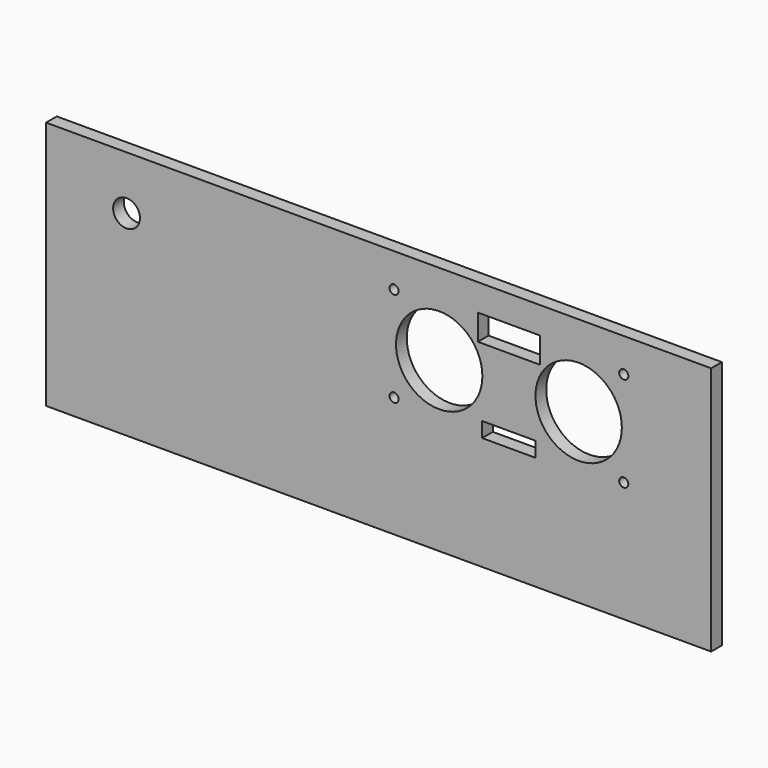
from build123d import *

# Parameters (mm, degrees)
F0_W     = 124
F0_H     = 46.5
F0_R     = 0.85
F0_R_2   = 2.5
F0_R_3   = 8.05
F1_DEPTH = 2.5


with BuildPart() as f1:
    # F0 (on Front) → F1 (new body)
    with BuildSketch(Plane.XZ):
        with Locations((65, 26.25)):
            Rectangle(F0_W, F0_H)
        with Locations((67.88, 25.46)):
            Circle(F0_R, mode=Mode.SUBTRACT)
        Polygon((84.29, 24.16), (84.29, 26.96), (89.29, 26.96), (94.29, 26.96), (94.29, 24.16), (89.29, 24.16), align=None, mode=Mode.SUBTRACT)
        with Locations((110.7, 25.46)):
            Circle(F0_R, mode=Mode.SUBTRACT)
        with Locations((18, 39.5)):
            Circle(F0_R_2, mode=Mode.SUBTRACT)
        with Locations((76.29, 34.33)):
            Circle(F0_R_3, mode=Mode.SUBTRACT)
        with Locations((102.29, 34.33)):
            Circle(F0_R_3, mode=Mode.SUBTRACT)
        with Locations((67.88, 43.2)):
            Circle(F0_R, mode=Mode.SUBTRACT)
        Polygon((83.49, 39.7), (83.49, 44.5), (89.29, 44.5), (95.09, 44.5), (95.09, 39.7), (89.29, 39.7), align=None, mode=Mode.SUBTRACT)
        with Locations((110.7, 43.2)):
            Circle(F0_R, mode=Mode.SUBTRACT)
    extrude(amount=F1_DEPTH)


solid = f1.part
